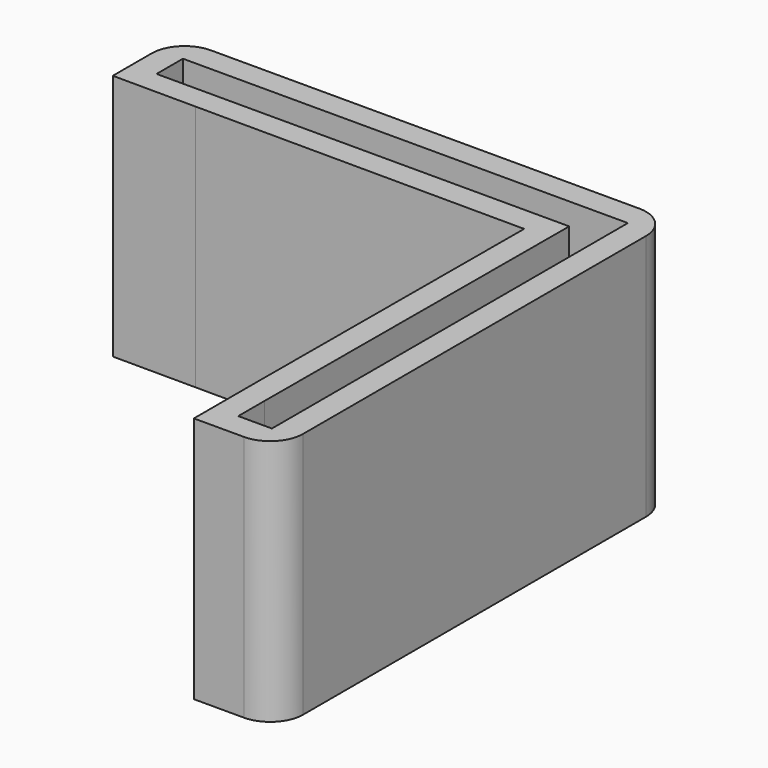
from build123d import *

# Parameters (mm, degrees)
F1_DEPTH = 3
F2_DEPTH = 15
F3_R     = 2
F4_R     = 2


with BuildPart() as f1:
    # F0 (on Top) → F1 (new body)
    with BuildSketch(Plane.XY):
        Polygon((14.999924, -14.999924), (14.999924, 14.999924), (-14.999924, 14.999924), (-14.999924, 10.056472), (-9.963582, 10.03751), (10.036125, 9.962208), (9.963582, -10.03751), (9.963582, -14.999924), align=None)
        Polygon((-13.499924, 11.499924), (-13.499924, 13.499924), (13.499924, 13.499924), (13.499924, -13.499924), (11.458288, -13.499924), (11.458288, -11.499924), (11.541712, 11.499924), (-11.458288, 11.499924), align=None, mode=Mode.SUBTRACT)
        Polygon((13.499924, 13.499924), (-13.499924, 13.499924), (-13.499924, 11.499924), (-11.458288, 11.499924), (11.541712, 11.499924), (11.458288, -11.499924), (11.458288, -13.499924), (13.499924, -13.499924), align=None)
    extrude(amount=F1_DEPTH)

    # F4
    f4_edges = [f1.edges().sort_by_distance(p)[0] for p in [
        (14.999924, 14.999924, 1.5),
        (14.999924, -14.999924, 1.5),
        (-14.999924, 14.999924, 1.5),
    ]]
    fillet(f4_edges, radius=F4_R)


with BuildPart() as f2:
    # F0 (on Top) → F2 (new body)
    with BuildSketch(Plane.XY):
        Polygon((14.999924, -14.999924), (14.999924, 14.999924), (-14.999924, 14.999924), (-14.999924, 10.056472), (-9.963582, 10.03751), (10.036125, 9.962208), (9.963582, -10.03751), (9.963582, -14.999924), align=None)
        Polygon((-13.499924, 11.499924), (-13.499924, 13.499924), (13.499924, 13.499924), (13.499924, -13.499924), (11.458288, -13.499924), (11.458288, -11.499924), (11.541712, 11.499924), (-11.458288, 11.499924), align=None, mode=Mode.SUBTRACT)
    extrude(amount=F2_DEPTH)

    # F3
    f3_edges = [f2.edges().sort_by_distance(p)[0] for p in [
        (14.999924, -14.999924, 7.5),
        (-14.999924, 14.999924, 7.5),
        (14.999924, 14.999924, 7.5),
    ]]
    fillet(f3_edges, radius=F3_R)


solid = Compound([f1.part, f2.part])
